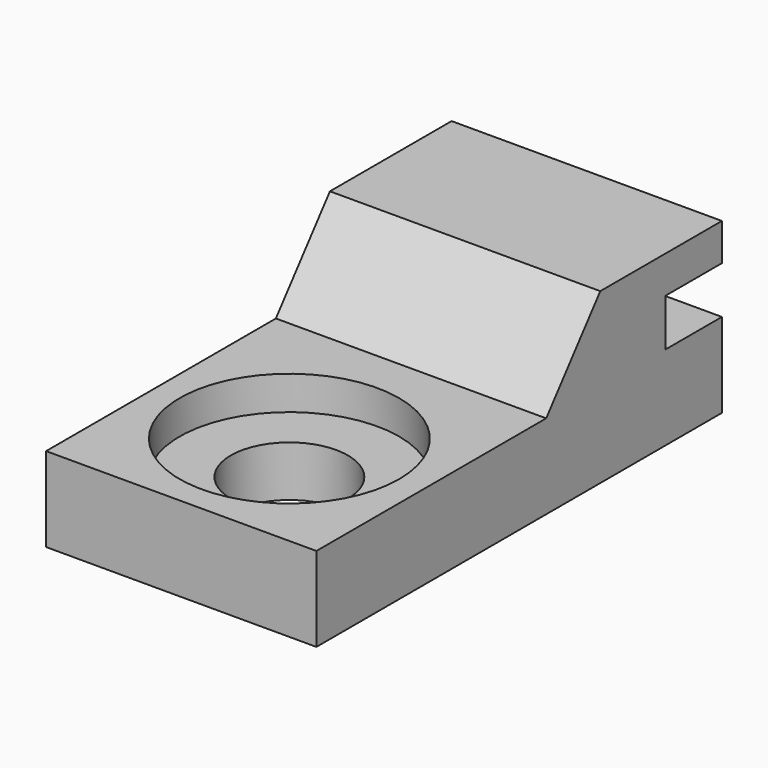
from build123d import *

# Parameters (mm, degrees)
F0_W           = 10.16
F0_H           = 19.05
F1_DEPTH       = 3.175
F4_DEPTH       = 10.16
F6_D           = 4.4
F6_DEPTH       = 12.7
F6_CBORE_D     = 8.25
F6_CBORE_DEPTH = 1.27
F7_R           = 25.4
F8_DEPTH       = 1.778


with BuildPart() as f1:
    # F0 (on Top) → F1 (new body)
    with BuildSketch(Plane.XY):
        Rectangle(F0_W, F0_H)
    extrude(amount=F1_DEPTH)

    # F2 (on face) → F4 (join, through all)
    with BuildSketch(Plane.YZ.offset(5.08)):
        Polygon((3.81, 6.35), (1.27, 3.175), (9.525, 3.175), (9.525, 6.35), align=None)
    extrude(amount=-F4_DEPTH)

    # F6
    with Locations(Plane.XY.offset(3.175)):
        with Locations((0, -4.445)):
            CounterBoreHole(F6_D / 2, F6_CBORE_D / 2, F6_CBORE_DEPTH, depth=F6_DEPTH)

    # F7 (on face) → F8 (cut)
    with BuildSketch(Plane.XY.offset(3.175)):
        with Locations((0, 31.75)):
            Circle(F7_R)
    extrude(amount=F8_DEPTH, mode=Mode.SUBTRACT)


solid = f1.part
